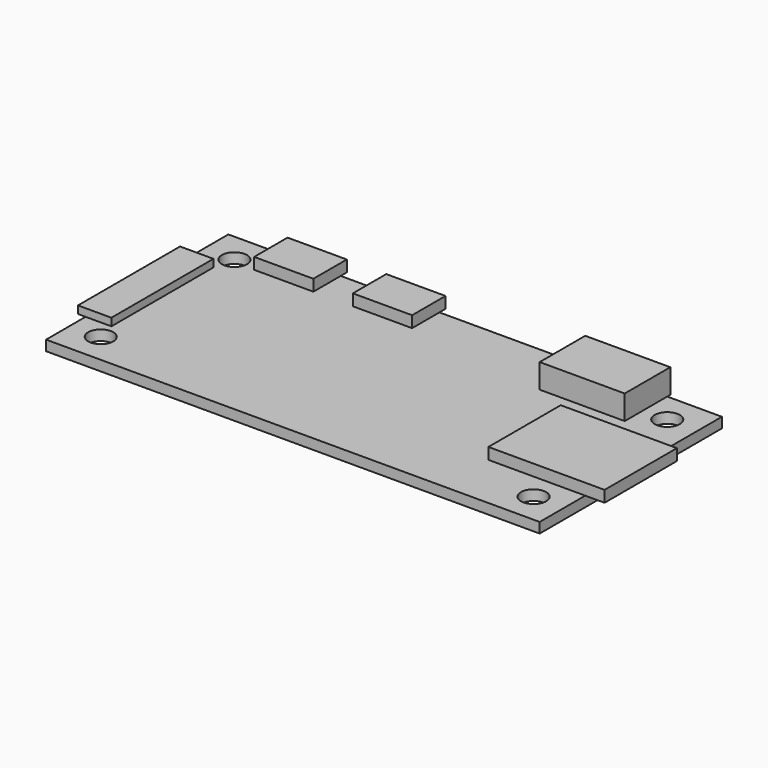
from build123d import *

# Parameters (mm, degrees)
F0_W     = 65
F0_H     = 30
F1_DEPTH = 1.35
F2_W     = 12.75
F2_H     = 11.9
F2_W_2   = 2.55
F3_DEPTH = 1.5
F2_W_3   = 7.8
F2_H_2   = 4.5
F2_H_3   = 1
F4_DEPTH = 1.5
F2_W_4   = 1
F2_H_4   = 16.8
F2_W_5   = 3.4
F5_DEPTH = 1
F2_W_6   = 11.2
F2_H_5   = 0.5
F2_H_6   = 7
F6_DEPTH = 3.2
F7_D     = 3.3
F7_DEPTH = 9
F7_TIP   = 0.9914200214


with BuildPart() as f1:
    # F0 (on Top) → F1 (new body)
    with BuildSketch(Plane.XY):
        Rectangle(F0_W, F0_H)
    extrude(amount=F1_DEPTH)

    # F2 (on face) → F3 (join)
    with BuildSketch(Plane.XY.offset(1.35)):
        with Locations((26.125, -1.55)):
            Rectangle(F2_W, F2_H)
        with Locations((33.775, -1.55)):
            Rectangle(F2_W_2, F2_H)
    extrude(amount=F3_DEPTH)

    # F2 (on face) → F4 (join)
    with BuildSketch(Plane.XY.offset(1.35)):
        with Locations((-21.6, 12.75)):
            Rectangle(F2_W_3, F2_H_2)
        with Locations((-8.6, 15.5)):
            Rectangle(F2_W_3, F2_H_3)
        with Locations((-8.6, 12.75)):
            Rectangle(F2_W_3, F2_H_2)
        with Locations((-21.6, 15.5)):
            Rectangle(F2_W_3, F2_H_3)
    extrude(amount=F4_DEPTH)

    # F2 (on face) → F5 (join)
    with BuildSketch(Plane.XY.offset(1.35)):
        with Locations((-33, -0.1)):
            Rectangle(F2_W_4, F2_H_4)
        with Locations((-30.8, -0.1)):
            Rectangle(F2_W_5, F2_H_4)
    extrude(amount=F5_DEPTH)

    # F2 (on face) → F6 (join)
    with BuildSketch(Plane.XY.offset(1.35)):
        with Locations((19.7, 15.25)):
            Rectangle(F2_W_6, F2_H_5)
        with Locations((19.7, 11.5)):
            Rectangle(F2_W_6, F2_H_6)
    extrude(amount=F6_DEPTH)

    # F7
    with Locations(Plane.XY.offset(1.35)):
        with Locations((28.5, 11), (28.5, -11), (-28.5, 11), (-28.5, -11)):
            Hole(F7_D / 2, depth=F7_DEPTH)
            with Locations((0, 0, -(F7_DEPTH + F7_TIP / 2))):  # 118° drill point
                Cone(0, F7_D / 2, F7_TIP, mode=Mode.SUBTRACT)


solid = f1.part
